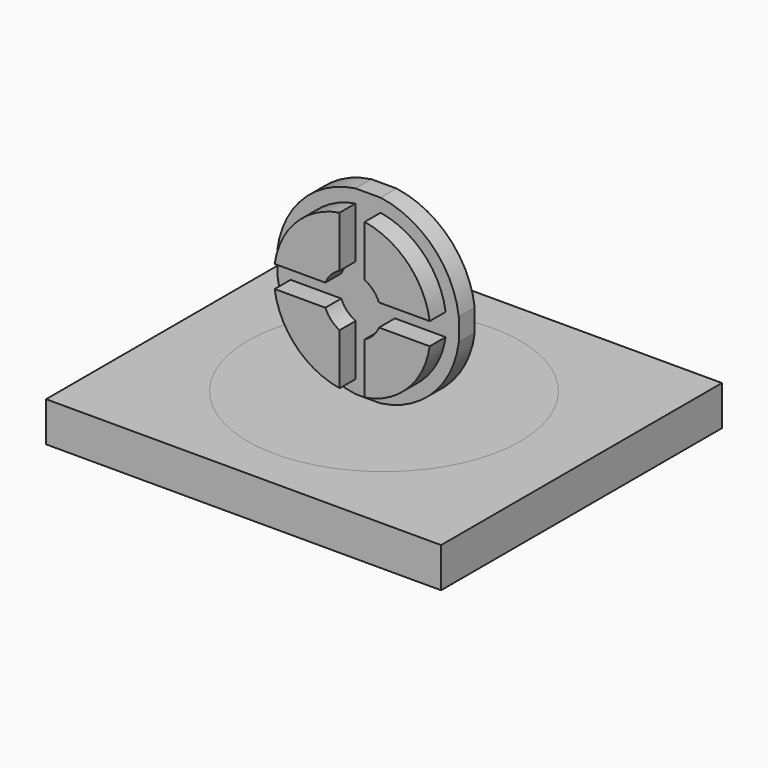
from build123d import *

# Parameters (mm, degrees)
F0_W     = 126.0746121407
F0_H     = 112.0492890477
F0_R     = 43.4887997988
F1_DEPTH = 12.7
F2_W     = 7.9912188114
F2_H     = 7.0527186902
F3_DEPTH = 6.35
F4_DEPTH = 6.35
F5_DEPTH = 12.7
F6_DEPTH = 6.35
F7_DEPTH = 12.7


with BuildPart() as f1:
    # F0 (on Top) → F1 (new body)
    with BuildSketch(Plane.XY):
        Rectangle(F0_W, F0_H)
        Circle(F0_R, mode=Mode.SUBTRACT)
        Circle(F0_R)
    extrude(amount=F1_DEPTH)


with BuildPart() as f3:
    # F2 (on Front) → F3 (new body)
    with BuildSketch(Plane.XZ):
        with BuildLine():
            Line((-3.9956094057, 66.6977111369), (-3.9956094057, 70.9296574744))
            ThreePointArc((-3.9956094057, 70.9296574744), (-20.7966081428, 62.4913572227), (-28.961308652, 45.5557103411))
            Line((-28.961308652, 45.5557103411), (-24.73979944, 45.5557103411))
            ThreePointArc((-24.73979944, 45.5557103411), (-17.8375160769, 59.5312339452), (-3.9956094057, 66.6977111369))
        make_face()
        with BuildLine():
            ThreePointArc((-28.961308652, 38.5029916509), (-20.7966081428, 21.5673447693), (-3.9956094057, 13.1290445176))
            Line((-3.9956094057, 13.1290445176), (-3.9956094057, 17.3609908552))
            ThreePointArc((-3.9956094057, 17.3609908552), (-17.8375160769, 24.5274680468), (-24.73979944, 38.5029916509))
            Line((-24.73979944, 38.5029916509), (-28.961308652, 38.5029916509))
        make_face()
        with BuildLine():
            Line((-24.73979944, 45.5557103411), (-28.961308652, 45.5557103411))
            Line((-28.961308652, 45.5557103411), (-28.961308652, 38.5029916509))
            Line((-28.961308652, 38.5029916509), (-24.73979944, 38.5029916509))
            ThreePointArc((-24.73979944, 38.5029916509), (-24.9898556731, 42.029350996), (-24.73979944, 45.5557103411))
        make_face()
        with BuildLine():
            Line((-3.9956094057, 13.1290445176), (3.9956094057, 13.1290445176))
            Line((3.9956094057, 13.1290445176), (3.9956094057, 17.3609908552))
            ThreePointArc((3.9956094057, 17.3609908552), (0, 17.0394953229), (-3.9956094057, 17.3609908552))
            Line((-3.9956094057, 17.3609908552), (-3.9956094057, 13.1290445176))
        make_face()
        with BuildLine():
            ThreePointArc((3.9956094057, 13.1290445176), (20.7966081428, 21.5673447693), (28.961308652, 38.5029916509))
            Line((28.961308652, 38.5029916509), (24.73979944, 38.5029916509))
            ThreePointArc((24.73979944, 38.5029916509), (17.8375160769, 24.5274680468), (3.9956094057, 17.3609908552))
            Line((3.9956094057, 17.3609908552), (3.9956094057, 13.1290445176))
        make_face()
        with BuildLine():
            Line((24.73979944, 45.5557103411), (28.961308652, 45.5557103411))
            ThreePointArc((28.961308652, 45.5557103411), (20.7966081428, 62.4913572227), (3.9956094057, 70.9296574744))
            Line((3.9956094057, 70.9296574744), (3.9956094057, 66.6977111369))
            ThreePointArc((3.9956094057, 66.6977111369), (17.8375160769, 59.5312339452), (24.73979944, 45.5557103411))
        make_face()
        with BuildLine():
            Line((3.9956094057, 66.6977111369), (3.9956094057, 70.9296574744))
            Line((3.9956094057, 70.9296574744), (-3.9956094057, 70.9296574744))
            Line((-3.9956094057, 70.9296574744), (-3.9956094057, 66.6977111369))
            ThreePointArc((-3.9956094057, 66.6977111369), (0, 67.0192066691), (3.9956094057, 66.6977111369))
        make_face()
        with BuildLine():
            Line((28.961308652, 38.5029916509), (28.961308652, 45.5557103411))
            Line((28.961308652, 45.5557103411), (24.73979944, 45.5557103411))
            ThreePointArc((24.73979944, 45.5557103411), (24.9272632267, 43.796958019), (24.9898556731, 42.029350996))
            ThreePointArc((24.9898556731, 42.029350996), (24.9272632267, 40.2617439731), (24.73979944, 38.5029916509))
            Line((24.73979944, 38.5029916509), (28.961308652, 38.5029916509))
        make_face()
        with BuildLine():
            Line((3.9956094057, 50.3787178999), (3.9956094057, 66.6977111369))
            ThreePointArc((3.9956094057, 66.6977111369), (0, 67.0192066691), (-3.9956094057, 66.6977111369))
            Line((-3.9956094057, 66.6977111369), (-3.9956094057, 50.3787178999))
            ThreePointArc((-3.9956094057, 50.3787178999), (0, 51.2855285126), (3.9956094057, 50.3787178999))
        make_face()
        with BuildLine():
            Line((3.9956094057, 45.5557103411), (3.9956094057, 50.3787178999))
            ThreePointArc((3.9956094057, 50.3787178999), (0, 51.2855285126), (-3.9956094057, 50.3787178999))
            Line((-3.9956094057, 50.3787178999), (-3.9956094057, 45.5557103411))
            Line((-3.9956094057, 45.5557103411), (3.9956094057, 45.5557103411))
        make_face()
        with Locations((0, 42.029350996)):
            Rectangle(F2_W, F2_H)
        with BuildLine():
            ThreePointArc((-3.9956094057, 33.6799840921), (0, 32.7731734794), (3.9956094057, 33.6799840921))
            Line((3.9956094057, 33.6799840921), (3.9956094057, 38.5029916509))
            Line((3.9956094057, 38.5029916509), (-3.9956094057, 38.5029916509))
            Line((-3.9956094057, 38.5029916509), (-3.9956094057, 33.6799840921))
        make_face()
        with BuildLine():
            ThreePointArc((9.2561775166, 42.029350996), (9.0799891269, 43.8267434614), (8.5581313374, 45.5557103411))
            Line((8.5581313374, 45.5557103411), (3.9956094057, 45.5557103411))
            Line((3.9956094057, 45.5557103411), (3.9956094057, 38.5029916509))
            Line((3.9956094057, 38.5029916509), (8.5581313374, 38.5029916509))
            ThreePointArc((8.5581313374, 38.5029916509), (9.0799891269, 40.2319585306), (9.2561775166, 42.029350996))
        make_face()
        with BuildLine():
            Line((3.9956094057, 45.5557103411), (8.5581313374, 45.5557103411))
            ThreePointArc((8.5581313374, 45.5557103411), (6.7241692527, 48.3903548539), (3.9956094057, 50.3787178999))
            Line((3.9956094057, 50.3787178999), (3.9956094057, 45.5557103411))
        make_face()
        with BuildLine():
            ThreePointArc((3.9956094057, 33.6799840921), (6.7241692527, 35.6683471382), (8.5581313374, 38.5029916509))
            Line((8.5581313374, 38.5029916509), (3.9956094057, 38.5029916509))
            Line((3.9956094057, 38.5029916509), (3.9956094057, 33.6799840921))
        make_face()
        with BuildLine():
            ThreePointArc((-8.5581313374, 38.5029916509), (-6.7241692527, 35.6683471382), (-3.9956094057, 33.6799840921))
            Line((-3.9956094057, 33.6799840921), (-3.9956094057, 38.5029916509))
            Line((-3.9956094057, 38.5029916509), (-8.5581313374, 38.5029916509))
        make_face()
        with BuildLine():
            Line((-3.9956094057, 38.5029916509), (-3.9956094057, 45.5557103411))
            Line((-3.9956094057, 45.5557103411), (-8.5581313374, 45.5557103411))
            ThreePointArc((-8.5581313374, 45.5557103411), (-9.2561775166, 42.029350996), (-8.5581313374, 38.5029916509))
            Line((-8.5581313374, 38.5029916509), (-3.9956094057, 38.5029916509))
        make_face()
        with BuildLine():
            Line((-3.9956094057, 45.5557103411), (-3.9956094057, 50.3787178999))
            ThreePointArc((-3.9956094057, 50.3787178999), (-6.7241692527, 48.3903548539), (-8.5581313374, 45.5557103411))
            Line((-8.5581313374, 45.5557103411), (-3.9956094057, 45.5557103411))
        make_face()
        with BuildLine():
            Line((-8.5581313374, 45.5557103411), (-24.73979944, 45.5557103411))
            ThreePointArc((-24.73979944, 45.5557103411), (-24.9898556731, 42.029350996), (-24.73979944, 38.5029916509))
            Line((-24.73979944, 38.5029916509), (-8.5581313374, 38.5029916509))
            ThreePointArc((-8.5581313374, 38.5029916509), (-9.2561775166, 42.029350996), (-8.5581313374, 45.5557103411))
        make_face()
        with BuildLine():
            ThreePointArc((-3.9956094057, 17.3609908552), (0, 17.0394953229), (3.9956094057, 17.3609908552))
            Line((3.9956094057, 17.3609908552), (3.9956094057, 33.6799840921))
            ThreePointArc((3.9956094057, 33.6799840921), (0, 32.7731734794), (-3.9956094057, 33.6799840921))
            Line((-3.9956094057, 33.6799840921), (-3.9956094057, 17.3609908552))
        make_face()
        with BuildLine():
            ThreePointArc((24.9898556731, 42.029350996), (24.9272632267, 43.796958019), (24.73979944, 45.5557103411))
            Line((24.73979944, 45.5557103411), (8.5581313374, 45.5557103411))
            ThreePointArc((8.5581313374, 45.5557103411), (9.0799891269, 43.8267434614), (9.2561775166, 42.029350996))
            ThreePointArc((9.2561775166, 42.029350996), (9.0799891269, 40.2319585306), (8.5581313374, 38.5029916509))
            Line((8.5581313374, 38.5029916509), (24.73979944, 38.5029916509))
            ThreePointArc((24.73979944, 38.5029916509), (24.9272632267, 40.2617439731), (24.9898556731, 42.029350996))
        make_face()
    extrude(amount=F3_DEPTH)

    # F4 (add): a face of the model
    f4_faces = [f3.faces().sort_by_distance(p)[0] for p in [
        (0, -6.35, 42.029350996),
    ]]
    extrude(f4_faces, amount=-F4_DEPTH)

    # F2 (on Front) → F5 (join)
    with BuildSketch(Plane.XZ):
        with BuildLine():
            Line((-3.9956094057, 50.3787178999), (-3.9956094057, 66.6977111369))
            ThreePointArc((-3.9956094057, 66.6977111369), (-17.8375160769, 59.5312339452), (-24.73979944, 45.5557103411))
            Line((-24.73979944, 45.5557103411), (-8.5581313374, 45.5557103411))
            ThreePointArc((-8.5581313374, 45.5557103411), (-6.7241692527, 48.3903548539), (-3.9956094057, 50.3787178999))
        make_face()
        with BuildLine():
            Line((8.5581313374, 45.5557103411), (24.73979944, 45.5557103411))
            ThreePointArc((24.73979944, 45.5557103411), (17.8375160769, 59.5312339452), (3.9956094057, 66.6977111369))
            Line((3.9956094057, 66.6977111369), (3.9956094057, 50.3787178999))
            ThreePointArc((3.9956094057, 50.3787178999), (6.7241692527, 48.3903548539), (8.5581313374, 45.5557103411))
        make_face()
        with BuildLine():
            ThreePointArc((3.9956094057, 17.3609908552), (17.8375160769, 24.5274680468), (24.73979944, 38.5029916509))
            Line((24.73979944, 38.5029916509), (8.5581313374, 38.5029916509))
            ThreePointArc((8.5581313374, 38.5029916509), (6.7241692527, 35.6683471382), (3.9956094057, 33.6799840921))
            Line((3.9956094057, 33.6799840921), (3.9956094057, 17.3609908552))
        make_face()
        with BuildLine():
            ThreePointArc((-24.73979944, 38.5029916509), (-17.8375160769, 24.5274680468), (-3.9956094057, 17.3609908552))
            Line((-3.9956094057, 17.3609908552), (-3.9956094057, 33.6799840921))
            ThreePointArc((-3.9956094057, 33.6799840921), (-6.7241692527, 35.6683471382), (-8.5581313374, 38.5029916509))
            Line((-8.5581313374, 38.5029916509), (-24.73979944, 38.5029916509))
        make_face()
    extrude(amount=F5_DEPTH)

    # F2 (on Front) → F6 (join)
    with BuildSketch(Plane.XZ):
        with BuildLine():
            Line((8.5581313374, 45.5557103411), (24.73979944, 45.5557103411))
            ThreePointArc((24.73979944, 45.5557103411), (17.8375160769, 59.5312339452), (3.9956094057, 66.6977111369))
            Line((3.9956094057, 66.6977111369), (3.9956094057, 50.3787178999))
            ThreePointArc((3.9956094057, 50.3787178999), (6.7241692527, 48.3903548539), (8.5581313374, 45.5557103411))
        make_face()
        with BuildLine():
            Line((-3.9956094057, 50.3787178999), (-3.9956094057, 66.6977111369))
            ThreePointArc((-3.9956094057, 66.6977111369), (-17.8375160769, 59.5312339452), (-24.73979944, 45.5557103411))
            Line((-24.73979944, 45.5557103411), (-8.5581313374, 45.5557103411))
            ThreePointArc((-8.5581313374, 45.5557103411), (-6.7241692527, 48.3903548539), (-3.9956094057, 50.3787178999))
        make_face()
        with BuildLine():
            ThreePointArc((-24.73979944, 38.5029916509), (-17.8375160769, 24.5274680468), (-3.9956094057, 17.3609908552))
            Line((-3.9956094057, 17.3609908552), (-3.9956094057, 33.6799840921))
            ThreePointArc((-3.9956094057, 33.6799840921), (-6.7241692527, 35.6683471382), (-8.5581313374, 38.5029916509))
            Line((-8.5581313374, 38.5029916509), (-24.73979944, 38.5029916509))
        make_face()
        with BuildLine():
            ThreePointArc((3.9956094057, 17.3609908552), (17.8375160769, 24.5274680468), (24.73979944, 38.5029916509))
            Line((24.73979944, 38.5029916509), (8.5581313374, 38.5029916509))
            ThreePointArc((8.5581313374, 38.5029916509), (6.7241692527, 35.6683471382), (3.9956094057, 33.6799840921))
            Line((3.9956094057, 33.6799840921), (3.9956094057, 17.3609908552))
        make_face()
    extrude(amount=F6_DEPTH)


with BuildPart() as f7:
    # F0 (on Top) → F7 (new body)
    with BuildSketch(Plane.XY):
        Circle(F0_R)
    extrude(amount=F7_DEPTH)


solid = Compound([f1.part, f3.part, f7.part])
